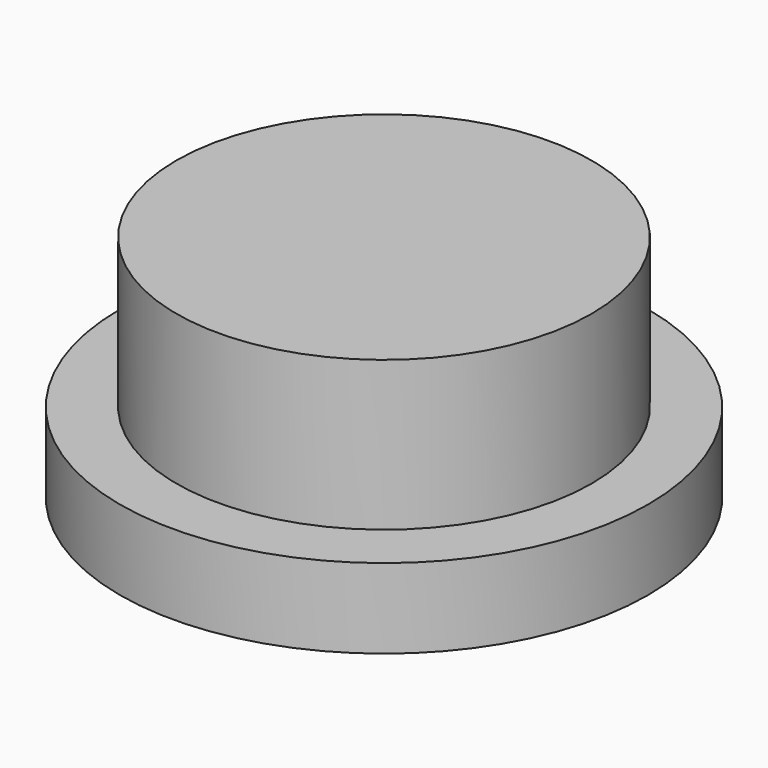
from build123d import *

# Parameters (mm, degrees)
SKETCH_R     = 15.9
PAD_DEPTH    = 4.8
SKETCH001_R  = 12.5
PAD001_DEPTH = 9


with BuildPart() as part:
    # Sketch → Pad (new body)
    with BuildSketch(Plane.XY):
        Circle(SKETCH_R)
    extrude(amount=PAD_DEPTH)

    # Sketch001 (on Face3 of Pad) → Pad001 (join)
    with BuildSketch(Plane.XY.offset(4.8)):
        Circle(SKETCH001_R)
    extrude(amount=PAD001_DEPTH)


solid = part.part
